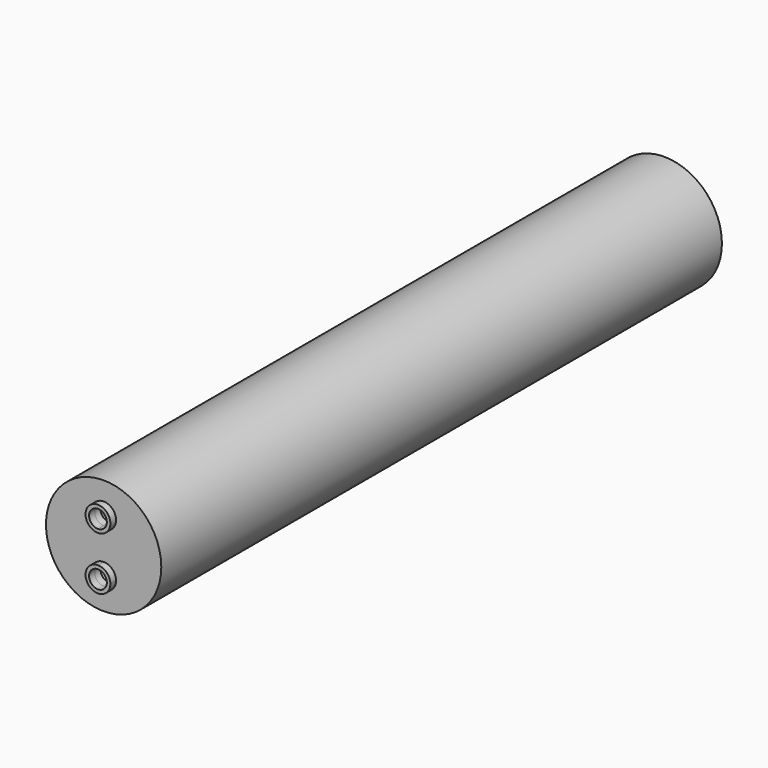
from build123d import *

# Parameters (mm, degrees)
F0_R     = 6.5
F1_DEPTH = 79
F2_T     = -0.8
F3_DEPTH = 0.8
F4_DEPTH = 0.8


with BuildPart() as f1:
    # F0 (on Front) → F1 (new body)
    with BuildSketch(Plane.XZ):
        with Locations((6.5, 6.5)):
            Circle(F0_R)
        with BuildLine():
            ThreePointArc((7.9, 3.5), (5.5100505063, 2.5100505063), (6.5, 4.9))
            ThreePointArc((6.5, 4.9), (7.4899494937, 4.4899494937), (7.9, 3.5))
        make_face(mode=Mode.SUBTRACT)
        with BuildLine():
            ThreePointArc((6.5, 8.1), (5.5100505063, 10.4899494937), (7.9, 9.5))
            ThreePointArc((7.9, 9.5), (7.4899494937, 8.5100505063), (6.5, 8.1))
        make_face(mode=Mode.SUBTRACT)
        with BuildLine():
            ThreePointArc((6.5, 8.1), (7.4899494937, 8.5100505063), (7.9, 9.5))
            ThreePointArc((7.9, 9.5), (5.5100505063, 10.4899494937), (6.5, 8.1))
        make_face()
        with BuildLine():
            ThreePointArc((7.5, 9.5), (7.2071067812, 8.7928932188), (6.5, 8.5))
            ThreePointArc((6.5, 8.5), (5.7928932188, 10.2071067812), (7.5, 9.5))
        make_face(mode=Mode.SUBTRACT)
        with BuildLine():
            ThreePointArc((7.9, 3.5), (7.4899494937, 4.4899494937), (6.5, 4.9))
            ThreePointArc((6.5, 4.9), (5.5100505063, 2.5100505063), (7.9, 3.5))
        make_face()
        with BuildLine():
            ThreePointArc((7.5, 3.5), (5.7928932188, 2.7928932188), (6.5, 4.5))
            ThreePointArc((6.5, 4.5), (7.2071067812, 4.2071067812), (7.5, 3.5))
        make_face(mode=Mode.SUBTRACT)
        with BuildLine():
            ThreePointArc((7.5, 9.5), (5.7928932188, 10.2071067812), (6.5, 8.5))
            ThreePointArc((6.5, 8.5), (7.2071067812, 8.7928932188), (7.5, 9.5))
        make_face()
        with BuildLine():
            ThreePointArc((7.5, 3.5), (7.2071067812, 4.2071067812), (6.5, 4.5))
            ThreePointArc((6.5, 4.5), (5.7928932188, 2.7928932188), (7.5, 3.5))
        make_face()
    extrude(amount=-F1_DEPTH)

    # F2
    f2_openings = [f1.faces().sort_by_distance(p)[0] for p in [
        (6.5, 0, 6.5),
    ]]
    offset(amount=F2_T, openings=f2_openings)

    # F0 (on Front) → F3 (join)
    with BuildSketch(Plane.XZ):
        with Locations((6.5, 6.5)):
            Circle(F0_R)
        with BuildLine():
            ThreePointArc((7.9, 3.5), (5.5100505063, 2.5100505063), (6.5, 4.9))
            ThreePointArc((6.5, 4.9), (7.4899494937, 4.4899494937), (7.9, 3.5))
        make_face(mode=Mode.SUBTRACT)
        with BuildLine():
            ThreePointArc((6.5, 8.1), (5.5100505063, 10.4899494937), (7.9, 9.5))
            ThreePointArc((7.9, 9.5), (7.4899494937, 8.5100505063), (6.5, 8.1))
        make_face(mode=Mode.SUBTRACT)
    extrude(amount=-F3_DEPTH)

    # F0 (on Front) → F4 (join, symmetric)
    with BuildSketch(Plane.XZ):
        with BuildLine():
            ThreePointArc((6.5, 8.1), (7.4899494937, 8.5100505063), (7.9, 9.5))
            ThreePointArc((7.9, 9.5), (5.5100505063, 10.4899494937), (6.5, 8.1))
        make_face()
        with BuildLine():
            ThreePointArc((7.5, 9.5), (7.2071067812, 8.7928932188), (6.5, 8.5))
            ThreePointArc((6.5, 8.5), (5.7928932188, 10.2071067812), (7.5, 9.5))
        make_face(mode=Mode.SUBTRACT)
        with BuildLine():
            ThreePointArc((7.9, 3.5), (7.4899494937, 4.4899494937), (6.5, 4.9))
            ThreePointArc((6.5, 4.9), (5.5100505063, 2.5100505063), (7.9, 3.5))
        make_face()
        with BuildLine():
            ThreePointArc((7.5, 3.5), (5.7928932188, 2.7928932188), (6.5, 4.5))
            ThreePointArc((6.5, 4.5), (7.2071067812, 4.2071067812), (7.5, 3.5))
        make_face(mode=Mode.SUBTRACT)
    extrude(amount=F4_DEPTH, both=True)


solid = f1.part
